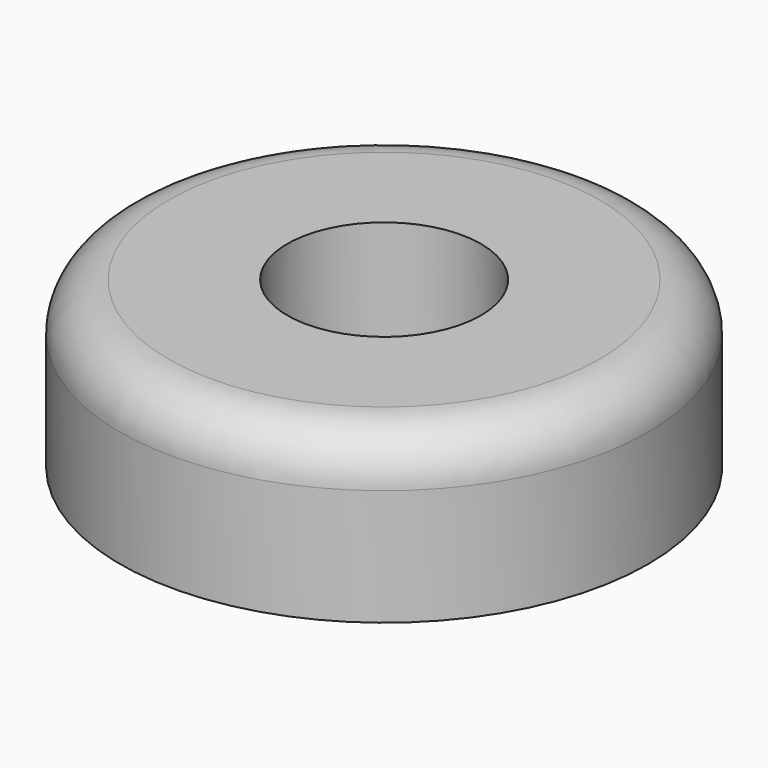
from build123d import *

# Parameters (mm, degrees)
F0_R           = 10.9
F1_DEPTH       = 7
F2_SIZE2       = 0.4
F2_SIZE        = 0.2
F3_R           = 2
F4_R           = 4
F5_DEPTH       = 3
F7_D           = 5
F7_DEPTH       = 10
F7_CBORE_D     = 8
F7_CBORE_DEPTH = 4.2
F8_R           = 6
F8_R_2         = 2
F9_DEPTH       = 1


with BuildPart() as f1:
    # F0 (on Top) → F1 (new body)
    with BuildSketch(Plane.XY):
        Circle(F0_R)
    extrude(amount=F1_DEPTH)

    # F2
    f2_edges = [f1.edges().sort_by_distance(p)[0] for p in [
        (-10.9, 0, 0),
    ]]
    chamfer(f2_edges, length=F2_SIZE, length2=F2_SIZE2)

    # F3
    f3_edges = [f1.edges().sort_by_distance(p)[0] for p in [
        (-10.9, 0, 7),
    ]]
    fillet(f3_edges, radius=F3_R)

    # F4 (on face) → F5 (join)
    with BuildSketch(Plane(origin=(0, 0, 0), x_dir=(1, 0, 0), z_dir=(0, 0, -1))):
        Circle(F4_R)
    extrude(amount=F5_DEPTH)

    # F7
    with Locations(Plane.XY.offset(7)):
        with Locations((0, 0)):
            CounterBoreHole(F7_D / 2, F7_CBORE_D / 2, F7_CBORE_DEPTH, depth=F7_DEPTH)

    # F8 (on face) → F9 (join)
    with BuildSketch(Plane(origin=(0, 0, 0), x_dir=(1, 0, 0), z_dir=(0, 0, -1))):
        Circle(F8_R)
        Circle(F8_R_2, mode=Mode.SUBTRACT)
    extrude(amount=F9_DEPTH)


solid = f1.part
